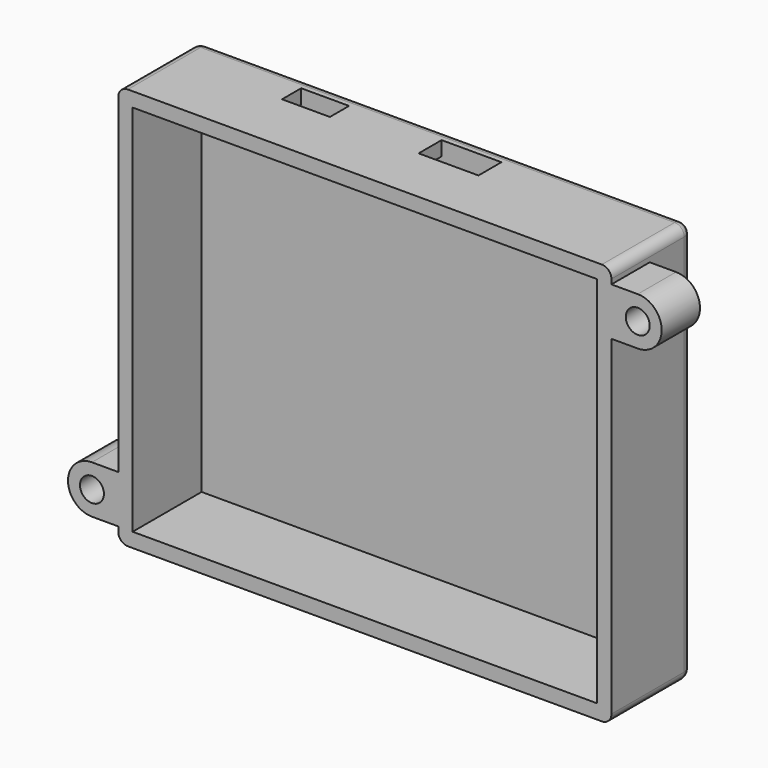
from build123d import *

# Parameters (mm, degrees)
F0_W     = 3
F0_H     = 78
F1_DEPTH = 21
F2_R     = 2
F0_W_2   = 97
F3_DEPTH = 3
F4_W     = 10
F4_H     = 5
F5_DEPTH = 3
F6_R     = 2.5
F7_DEPTH = 10
F4_W_2   = 12.5
F4_H_2   = 6
F8_DEPTH = 3


with BuildPart() as f1:
    # F0 (on Front) → F1 (new body)
    with BuildSketch(Plane.XZ):
        Polygon((-37.858943, 31.427674), (-34.858943, 31.427674), (62.141057, 31.427674), (65.141057, 31.427674), (65.141057, 34.427674), (-37.858943, 34.427674), align=None)
        with Locations((-36.358943, -7.572326)):
            Rectangle(F0_W, F0_H)
        Polygon((62.141057, -46.572326), (-34.858943, -46.572326), (-37.858943, -46.572326), (-37.858943, -49.572326), (65.141057, -49.572326), (65.141057, -46.572326), align=None)
        with Locations((63.641057, -7.572326)):
            Rectangle(F0_W, F0_H)
    extrude(amount=F1_DEPTH)

    # F2
    f2_edges = [f1.edges().sort_by_distance(p)[0] for p in [
        (-37.858943, -10.5, -49.572326),
        (65.141057, -10.5, -49.572326),
        (13.641057, 0, -49.572326),
        (-37.858943, 0, -7.572326),
        (-37.858943, -10.5, 34.427674),
        (13.641057, 0, 34.427674),
        (65.141057, -10.5, 34.427674),
        (65.141057, 0, -7.572326),
    ]]
    fillet(f2_edges, radius=F2_R)

    # F0 (on Front) → F3 (join)
    with BuildSketch(Plane.XZ):
        with Locations((13.641057, -7.572326)):
            Rectangle(F0_W_2, F0_H)
    extrude(amount=F3_DEPTH)

    # F4 (on face) → F5 (cut)
    with BuildSketch(Plane(origin=(0, 0, 31.427674), x_dir=(1, 0, 0), z_dir=(0, 0, -1))):
        with Locations((-9.054972, 5.5)):
            Rectangle(F4_W, F4_H)
    extrude(amount=-F5_DEPTH, mode=Mode.SUBTRACT)

    # F6 (on face) → F7 (join)
    with BuildSketch(Plane.XZ.offset(21)):
        with BuildLine():
            Line((70.641057, 31.426914), (65.141057, 31.426914))
            Line((65.141057, 31.426914), (65.141057, 21.426914))
            Line((65.141057, 21.426914), (70.641057, 21.426914))
            ThreePointArc((70.641057, 21.426914), (75.641057, 26.426914), (70.641057, 31.426914))
        make_face()
        with Locations((70.641057, 26.426914)):
            Circle(F6_R, mode=Mode.SUBTRACT)
        with BuildLine():
            Line((-43.358943, -46.570901), (-37.858943, -46.570901))
            Line((-37.858943, -46.570901), (-37.858943, -36.570901))
            Line((-37.858943, -36.570901), (-43.358943, -36.570901))
            ThreePointArc((-43.358943, -36.570901), (-48.358943, -41.570901), (-43.358943, -46.570901))
        make_face()
        with Locations((-43.358943, -41.570901)):
            Circle(F6_R, mode=Mode.SUBTRACT)
    extrude(amount=-F7_DEPTH)

    # F4 (on face) → F8 (cut)
    with BuildSketch(Plane(origin=(0, 0, 31.427674), x_dir=(1, 0, 0), z_dir=(0, 0, -1))):
        with Locations((21.521203, 6)):
            Rectangle(F4_W_2, F4_H_2)
    extrude(amount=-F8_DEPTH, mode=Mode.SUBTRACT)


solid = f1.part
